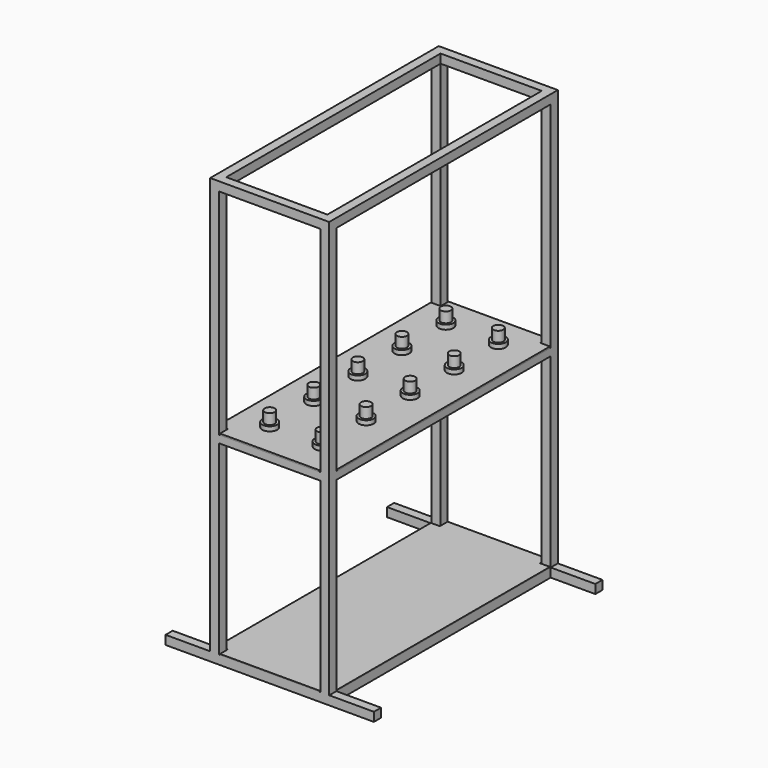
from build123d import *

# Parameters (mm, degrees)
F0_W      = 30
F0_H      = 30
F1_DEPTH  = 1400
F2_W      = 340
F2_H      = 900
F3_DEPTH  = 30
F5_W      = 400
F5_H      = 960
F5_W_2    = 340
F5_H_2    = 900
F6_DEPTH  = 25
F8_W      = 400
F8_H      = 960
F8_W_2    = 340
F8_H_2    = 900
F9_DEPTH  = 30
F11_DEPTH = 5
F12_R     = 17
F13_DEPTH = 50
F14_R     = 25
F14_R_2   = 17
F15_DEPTH = 15
F17_DEPTH = 3


with BuildPart() as f1:
    # F0 (on Top) → F1 (new body)
    with BuildSketch(Plane.XY):
        with Locations((185, 465)):
            Rectangle(F0_W, F0_H)
        with Locations((185, -465)):
            Rectangle(F0_W, F0_H)
        with Locations((-185, 465)):
            Rectangle(F0_W, F0_H)
        with Locations((-185, -465)):
            Rectangle(F0_W, F0_H)
    extrude(amount=F1_DEPTH)

    # F2 (on Top) → F3 (join)
    with BuildSketch(Plane.XY):
        Polygon((350, 480), (200, 480), (-200, 480), (-350, 480), (-350, 450), (-200, 450), (-200, -450), (-350, -450), (-350, -480), (-200, -480), (200, -480), (350, -480), (350, -450), (200, -450), (200, 450), (350, 450), align=None)
        Rectangle(F2_W, F2_H, mode=Mode.SUBTRACT)
    extrude(amount=F3_DEPTH)

    # F5 (on offset) → F6 (join)
    with BuildSketch(Plane.XY.offset(680)):
        Rectangle(F5_W, F5_H)
        Rectangle(F5_W_2, F5_H_2, mode=Mode.SUBTRACT)
    extrude(amount=-F6_DEPTH)

    # F8 (on offset) → F9 (join)
    with BuildSketch(Plane.XY.offset(1400)):
        Rectangle(F8_W, F8_H)
        Rectangle(F8_W_2, F8_H_2, mode=Mode.SUBTRACT)
    extrude(amount=F9_DEPTH)


with BuildPart() as f11:
    # F10 (on offset) → F11 (new body)
    with BuildSketch(Plane.XY.offset(680)):
        Polygon((-200, 447), (-200, 0), (-200, -447), (-167, -447), (-167, -480), (167, -480), (167, -447), (200, -447), (200, 447), (167, 447), (167, 480), (-167, 480), (-167, 447), align=None)
    extrude(amount=F11_DEPTH)

    # F12 (on face) → F13 (join)
    with BuildSketch(Plane.XY.offset(685)):
        with Locations((-88, -185)):
            Circle(F12_R)
        with Locations((-88, -370)):
            Circle(F12_R)
        with Locations((88, -185)):
            Circle(F12_R)
        with Locations((88, -370)):
            Circle(F12_R)
        with Locations((88, 0)):
            Circle(F12_R)
        with Locations((-88, 0)):
            Circle(F12_R)
        with Locations((-88, 185)):
            Circle(F12_R)
        with Locations((88, 185)):
            Circle(F12_R)
        with Locations((88, 370)):
            Circle(F12_R)
        with Locations((-88, 370)):
            Circle(F12_R)
    extrude(amount=F13_DEPTH)

    # F14 (on face) → F15 (join)
    with BuildSketch(Plane.XY.offset(685)):
        with Locations((88, -370)):
            Circle(F14_R)
        with Locations((88, -370)):
            Circle(F14_R_2, mode=Mode.SUBTRACT)
        with Locations((-88, -370)):
            Circle(F14_R)
        with Locations((-88, -370)):
            Circle(F14_R_2, mode=Mode.SUBTRACT)
        with Locations((-88, -185)):
            Circle(F14_R)
        with Locations((-88, -185)):
            Circle(F14_R_2, mode=Mode.SUBTRACT)
        with Locations((88, -185)):
            Circle(F14_R)
        with Locations((88, -185)):
            Circle(F14_R_2, mode=Mode.SUBTRACT)
        with Locations((-88, 0)):
            Circle(F14_R)
        with Locations((-88, 0)):
            Circle(F14_R_2, mode=Mode.SUBTRACT)
        with Locations((88, 0)):
            Circle(F14_R)
        with Locations((88, 0)):
            Circle(F14_R_2, mode=Mode.SUBTRACT)
        with Locations((88, 185)):
            Circle(F14_R)
        with Locations((88, 185)):
            Circle(F14_R_2, mode=Mode.SUBTRACT)
        with Locations((-88, 185)):
            Circle(F14_R)
        with Locations((-88, 185)):
            Circle(F14_R_2, mode=Mode.SUBTRACT)
        with Locations((-88, 370)):
            Circle(F14_R)
        with Locations((-88, 370)):
            Circle(F14_R_2, mode=Mode.SUBTRACT)
        with Locations((88, 370)):
            Circle(F14_R)
        with Locations((88, 370)):
            Circle(F14_R_2, mode=Mode.SUBTRACT)
    extrude(amount=F15_DEPTH)


with BuildPart() as f17:
    # F16 (on face) → F17 (new body)
    with BuildSketch(Plane.XY.offset(30)):
        Polygon((-200, 447), (-200, 43.747727), (-200, -447), (-167, -447), (-167, -480), (167, -480), (167, -447), (200, -447), (200, 447), (167, 447), (167, 480), (-170, 480), (-170, 447), align=None)
    extrude(amount=F17_DEPTH)


solid = Compound([f1.part, f11.part, f17.part])
